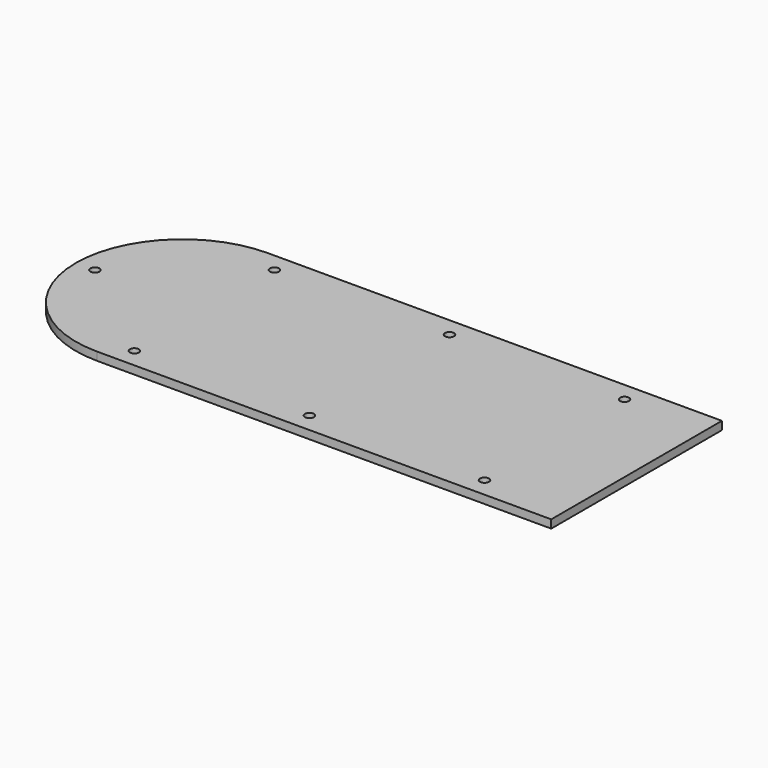
from build123d import *

# Parameters (mm, degrees)
SKETCH_R  = 1.65
PAD_DEPTH = 3


with BuildPart() as part:
    # Sketch → Pad (new body)
    with BuildSketch(Plane.XY):
        with BuildLine():
            ThreePointArc((0, 39), (-39, 0), (0, -39))
            Line((166, -39), (0, -39))
            Line((166, 39), (166, -39))
            Line((0, 39), (166, 39))
        make_face()
        with Locations((-32, 0)):
            Circle(SKETCH_R, mode=Mode.SUBTRACT)
        with Locations((8, 32)):
            Circle(SKETCH_R, mode=Mode.SUBTRACT)
        with Locations((72, 32)):
            Circle(SKETCH_R, mode=Mode.SUBTRACT)
        with Locations((136, 32)):
            Circle(SKETCH_R, mode=Mode.SUBTRACT)
        with Locations((8, -32)):
            Circle(SKETCH_R, mode=Mode.SUBTRACT)
        with Locations((72, -32)):
            Circle(SKETCH_R, mode=Mode.SUBTRACT)
        with Locations((136, -32)):
            Circle(SKETCH_R, mode=Mode.SUBTRACT)
    extrude(amount=PAD_DEPTH)


solid = part.part
